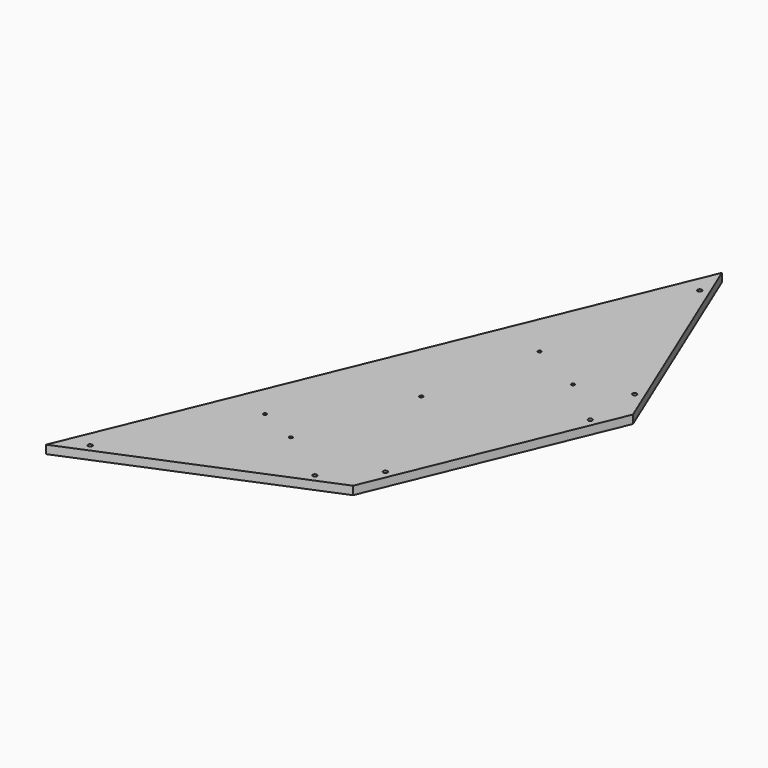
from build123d import *

# Parameters (mm, degrees)
F1_DEPTH = 12.7
F3_DEPTH = 12.701
F5_D     = 5.08


with BuildPart() as f1:
    # F0 (on Top) → F1 (new body)
    with BuildSketch(Plane.XY):
        Polygon((349.925731, -349.925731), (494.869714, 0), (349.925731, 349.925731), (0, -494.869714), align=None)
    extrude(amount=F1_DEPTH)

    # F2 (on face) → F3 (cut, through all)
    with BuildSketch(Plane.XY.offset(12.7)):
        with BuildLine():
            Line((357.632779, 298.132571), (354.903108, 299.75415))
            ThreePointArc((354.903108, 299.75415), (356.79197, 295.070926), (360.807779, 298.132571))
            ThreePointArc((360.807779, 298.132571), (360.746772, 298.751982), (360.566096, 299.347591))
            Line((360.566096, 299.347591), (357.632779, 298.132571))
        make_face()
        with BuildLine():
            ThreePointArc((360.566096, 299.347591), (357.860135, 301.29942), (354.903108, 299.75415))
            Line((354.903108, 299.75415), (357.632779, 298.132571))
            Line((357.632779, 298.132571), (360.566096, 299.347591))
        make_face()
        with BuildLine():
            Line((463.696126, 42.073001), (463.696126, 45.248001))
            ThreePointArc((463.696126, 45.248001), (461.451062, 39.827937), (466.871126, 42.073001))
            ThreePointArc((466.871126, 42.073001), (466.810119, 42.692412), (466.629443, 43.288021))
            Line((466.629443, 43.288021), (463.696126, 42.073001))
        make_face()
        with BuildLine():
            ThreePointArc((466.629443, 43.288021), (465.460061, 44.712917), (463.696126, 45.248001))
            Line((463.696126, 45.248001), (463.696126, 42.073001))
            Line((463.696126, 42.073001), (466.629443, 43.288021))
        make_face()
        with BuildLine():
            ThreePointArc((466.629443, -43.288021), (466.810119, -42.692412), (466.871126, -42.073001))
            ThreePointArc((466.871126, -42.073001), (465.94119, -39.827937), (463.696126, -38.898001))
            Line((463.696126, -38.898001), (463.696126, -42.073001))
            Line((463.696126, -42.073001), (466.629443, -43.288021))
        make_face()
        with BuildLine():
            Line((463.696126, -42.073001), (463.696126, -38.898001))
            ThreePointArc((463.696126, -38.898001), (461.05621, -43.836936), (466.629443, -43.288021))
            Line((466.629443, -43.288021), (463.696126, -42.073001))
        make_face()
        with BuildLine():
            ThreePointArc((360.566096, -299.347591), (360.746772, -298.751982), (360.807779, -298.132571))
            ThreePointArc((360.807779, -298.132571), (359.877843, -295.887507), (357.632779, -294.957571))
            Line((357.632779, -294.957571), (357.632779, -298.132571))
            Line((357.632779, -298.132571), (360.566096, -299.347591))
        make_face()
        with BuildLine():
            Line((357.632779, -298.132571), (357.632779, -294.957571))
            ThreePointArc((357.632779, -294.957571), (354.992863, -299.896506), (360.566096, -299.347591))
            Line((360.566096, -299.347591), (357.632779, -298.132571))
        make_face()
        with BuildLine():
            ThreePointArc((299.347591, -360.566096), (300.772487, -359.396714), (301.307571, -357.632779))
            ThreePointArc((301.307571, -357.632779), (300.377635, -355.387715), (298.132571, -354.457779))
            Line((298.132571, -354.457779), (298.132571, -357.632779))
            Line((298.132571, -357.632779), (299.347591, -360.566096))
        make_face()
        with BuildLine():
            Line((298.132571, -357.632779), (298.132571, -354.457779))
            ThreePointArc((298.132571, -354.457779), (295.018577, -358.252191), (299.347591, -360.566096))
            Line((299.347591, -360.566096), (298.132571, -357.632779))
        make_face()
        with BuildLine():
            ThreePointArc((43.288021, -466.629443), (44.712917, -465.460061), (45.248001, -463.696126))
            ThreePointArc((45.248001, -463.696126), (44.712917, -461.93219), (43.288021, -460.762808))
            Line((43.288021, -460.762808), (42.073001, -463.696126))
            Line((42.073001, -463.696126), (43.288021, -466.629443))
        make_face()
        with BuildLine():
            Line((42.073001, -463.696126), (43.288021, -460.762808))
            ThreePointArc((43.288021, -460.762808), (38.898001, -463.696126), (43.288021, -466.629443))
            Line((43.288021, -466.629443), (42.073001, -463.696126))
        make_face()
    extrude(amount=-F3_DEPTH, mode=Mode.SUBTRACT)

    # F5 (through all)
    with Locations(Plane.XY.offset(12.7)):
        with Locations((307.474792, 57.228103), (269.994706, -120.526589), (391.079336, 15.960708), (214.770496, -298.838586), (153.693318, -271.606386)):
            Hole(F5_D / 2)


solid = f1.part
